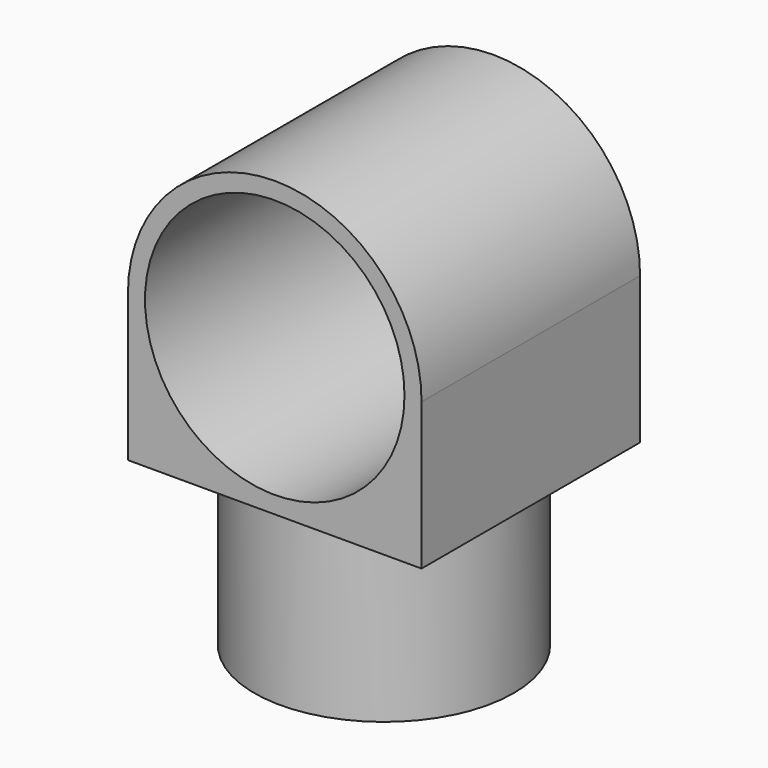
from build123d import *

# Parameters (mm, degrees)
F0_R     = 19
F1_DEPTH = 40
F2_R     = 19
F3_DEPTH = 25


with BuildPart() as f1:
    # F0 (on Front) → F1 (new body)
    with BuildSketch(Plane.XZ):
        with BuildLine():
            ThreePointArc((0, 0), (15.202796, 6.297204), (21.5, 21.5))
            ThreePointArc((21.5, 21.5), (0, 43), (-21.5, 21.5))
            ThreePointArc((-21.5, 21.5), (-15.202796, 6.297204), (0, 0))
        make_face()
        with Locations((0, 21.5)):
            Circle(F0_R, mode=Mode.SUBTRACT)
        with BuildLine():
            Line((21.5, 0), (21.5, 21.5))
            ThreePointArc((21.5, 21.5), (15.202796, 6.297204), (0, 0))
            Line((0, 0), (21.5, 0))
        make_face()
        with BuildLine():
            ThreePointArc((0, 0), (-15.202796, 6.297204), (-21.5, 21.5))
            Line((-21.5, 21.5), (-21.5, 0))
            Line((-21.5, 0), (0, 0))
        make_face()
    extrude(amount=F1_DEPTH)

    # F2 (on face) → F3 (join)
    with BuildSketch(Plane(origin=(0, 0, 0), x_dir=(1, 0, 0), z_dir=(0, 0, -1))):
        with Locations((0, 20)):
            Circle(F2_R)
    extrude(amount=F3_DEPTH)


solid = f1.part
